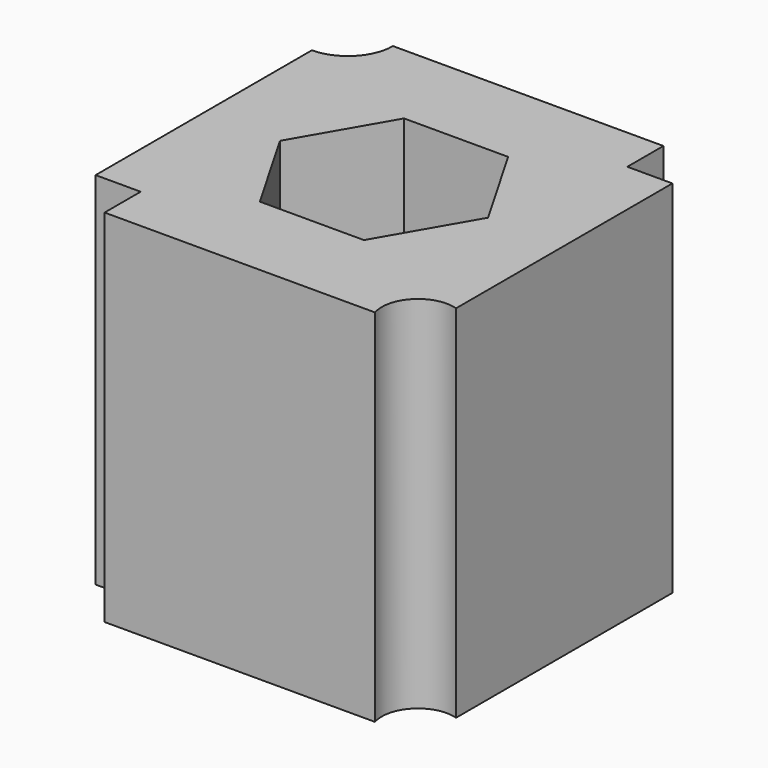
from build123d import *

# Parameters (mm, degrees)
F1_DEPTH = 25.4


with BuildPart() as f1:
    # F0 (on Top) → F1 (new body)
    with BuildSketch(Plane.XY):
        with BuildLine():
            Line((9.525, 9.525), (9.525, 12.7))
            Line((9.525, 12.7), (-9.525, 12.7))
            ThreePointArc((-9.525, 12.7), (-10.454936, 10.454936), (-12.7, 9.525))
            Line((-12.7, 9.525), (-12.7, -9.525))
            Line((-12.7, -9.525), (-9.525, -9.525))
            Line((-9.525, -9.525), (-9.525, -12.7))
            Line((-9.525, -12.7), (9.525, -12.7))
            ThreePointArc((9.525, -12.7), (10.156475, -10.156475), (12.7, -9.525))
            Line((12.7, -9.525), (12.7, 9.525))
            Line((12.7, 9.525), (9.525, 9.525))
        make_face()
        Polygon((-3.666174, 6.35), (3.666174, 6.35), (7.332348, 0), (3.666174, -6.35), (-3.666174, -6.35), (-7.332348, 0), align=None, mode=Mode.SUBTRACT)
    extrude(amount=F1_DEPTH)


solid = f1.part
